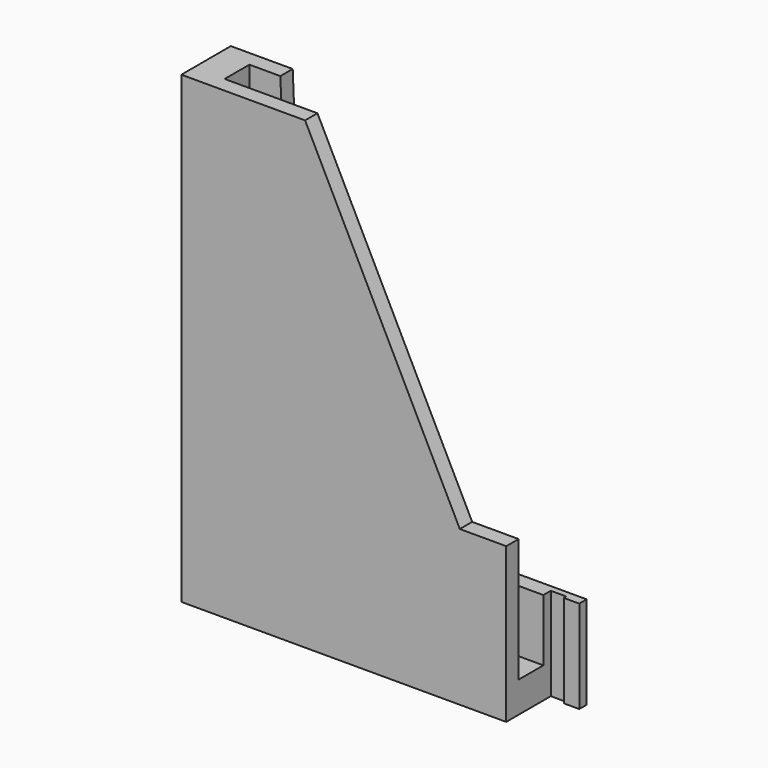
from build123d import *

# Parameters (mm, degrees)
F0_W      = 95
F0_H      = 5
F1_DEPTH  = 50
F2_W      = 95
F2_H      = 10
F3_DEPTH  = 10
F4_W      = 5
F4_H      = 2
F5_DEPTH  = 30
F6_W      = 10
F6_H      = 120
F7_DEPTH  = 5
F8_W      = 30
F8_H      = 100
F9_DEPTH  = 5
F10_W     = 10
F10_H     = 20
F11_DEPTH = 150
F12_W     = 8
F12_H     = 10
F13_DEPTH = 1


with BuildPart() as f1:
    # F0 (on Top) → F1 (new body)
    with BuildSketch(Plane.XY):
        with Locations((47.5, 2.5)):
            Rectangle(F0_W, F0_H)
    extrude(amount=F1_DEPTH)

    # F2 (on Top) → F3 (join)
    with BuildSketch(Plane.XY):
        with Locations((47.5, 10)):
            Rectangle(F2_W, F2_H)
    extrude(amount=F3_DEPTH)

    # F4 (on Top) → F5 (join)
    with BuildSketch(Plane.XY):
        Polygon((0, 20), (0, 15), (95, 15), (95, 18), (95, 20), align=None)
        with Locations((97.5, 19)):
            Rectangle(F4_W, F4_H)
        Polygon((100, 20), (100, 18), (100, 17), (105, 17), (105, 20), align=None)
    extrude(amount=F5_DEPTH)

    # F6 (on face) → F7 (join)
    with BuildSketch(Plane(origin=(0, 20, 0), x_dir=(-1, 0, 0), z_dir=(0, 1, 0))):
        with Locations((-5, 90)):
            Rectangle(F6_W, F6_H)
        Polygon((-15, 30), (-10, 30), (-10, 150), align=None)
    extrude(amount=-F7_DEPTH)

    # F8 (on face) → F9 (join)
    with BuildSketch(Plane.XZ):
        with Locations((15, 100)):
            Rectangle(F8_W, F8_H)
        Polygon((30, 150), (30, 50), (80, 50), align=None)
    extrude(amount=-F9_DEPTH)

    # F10 (on Top) → F11 (join)
    with BuildSketch(Plane.XY):
        with Locations((-5, 10)):
            Rectangle(F10_W, F10_H)
    extrude(amount=F11_DEPTH)

    # F12 (on face) → F13 (cut)
    with BuildSketch(Plane(origin=(-10, 0, 0), x_dir=(0, -1, 0), z_dir=(-1, 0, 0))):
        with Locations((-10, 135)):
            Rectangle(F12_W, F12_H)
        with Locations((-10, 85)):
            Rectangle(F12_W, F12_H)
        with Locations((-10, 35)):
            Rectangle(F12_W, F12_H)
    extrude(amount=-F13_DEPTH, mode=Mode.SUBTRACT)


solid = f1.part
